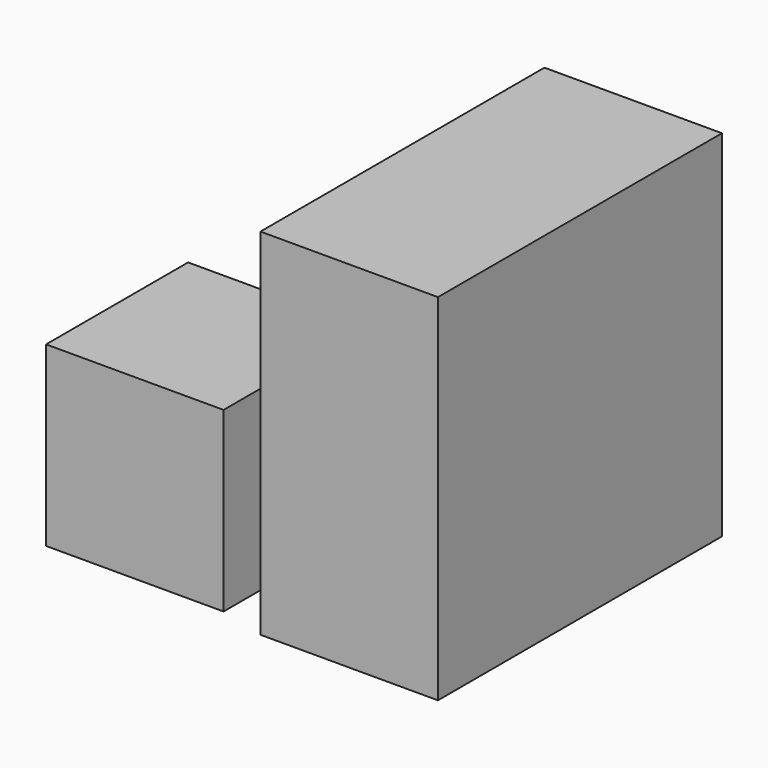
from build123d import *

# Parameters (mm, degrees)
F0_W     = 25.4
F0_H     = 50.8
F1_DEPTH = 50.8
F2_W     = 25.4
F2_H     = 25.4
F3_DEPTH = 25.4


with BuildPart() as f1:
    # F0 (on Front) → F1 (new body)
    with BuildSketch(Plane.XZ):
        with Locations((43.918057, -5.821086)):
            Rectangle(F0_W, F0_H)
    extrude(amount=F1_DEPTH)


with BuildPart() as f3:
    # F2 (on Right) → F3 (new body)
    with BuildSketch(Plane.YZ):
        with Locations((-37.425599, -17.757268)):
            Rectangle(F2_W, F2_H)
    extrude(amount=F3_DEPTH)


solid = Compound([f1.part, f3.part])
